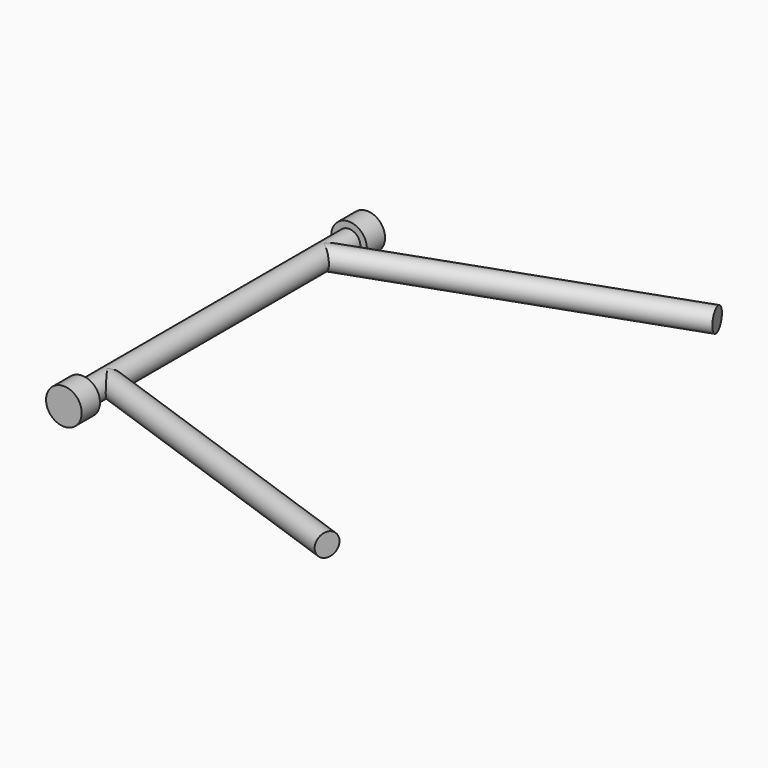
from build123d import *

# Parameters (mm, degrees)
F0_R     = 8
F1_DEPTH = 234
F2_R     = 12.5
F2_R_2   = 8
F3_DEPTH = 16
F4_R     = 12.5
F5_DEPTH = 16
F7_W     = 95.3162200749
F7_H     = 152.7085006237
F8_DEPTH = 50
F10_R    = 8


with BuildPart() as f1:
    # F0 (on Front) → F1 (new body)
    with BuildSketch(Plane.XZ):
        Circle(F0_R)
    extrude(amount=F1_DEPTH)

    # F2 (on face) → F3 (join)
    with BuildSketch(Plane.XZ.offset(234)):
        Circle(F2_R)
        Circle(F2_R_2, mode=Mode.SUBTRACT)
        Circle(F2_R_2)
    extrude(amount=F3_DEPTH)

    # F4 (on face) → F5 (join)
    with BuildSketch(Plane(origin=(0, 0, 0), x_dir=(-1, 0, 0), z_dir=(0, 1, 0))):
        Circle(F4_R)
    extrude(amount=F5_DEPTH)

    # F7 (on Top) → F8 (cut, symmetric)
    with BuildSketch(Plane.XY):
        with Locations((7.3376540095, -193.3542503119)):
            Rectangle(F7_W, F7_H)
    extrude(amount=F8_DEPTH, both=True, mode=Mode.SUBTRACT)

    # F11: sweep along a path in F6
    with BuildLine(Plane.XY) as f11_path:
        Line((0, -22), (215, 54))
    # F10 (on line) → F11 (sweep)
    with BuildSketch(Plane(origin=(-6.9129439818, -2.4436453145, 0), x_dir=(-0.3332788427, 0.9428283051, 0), z_dir=(0.9428283051, 0.3332788427, 0))):
        with Locations((-20.7422227131, 0)):
            Circle(F10_R)
    sweep(path=f11_path.line)

    # F12: F1 across face


with BuildPart() as f1_1:
    add(f1.part)
    add(f1.part.mirror(Plane.XZ.offset(117)))


solid = f1_1.part
